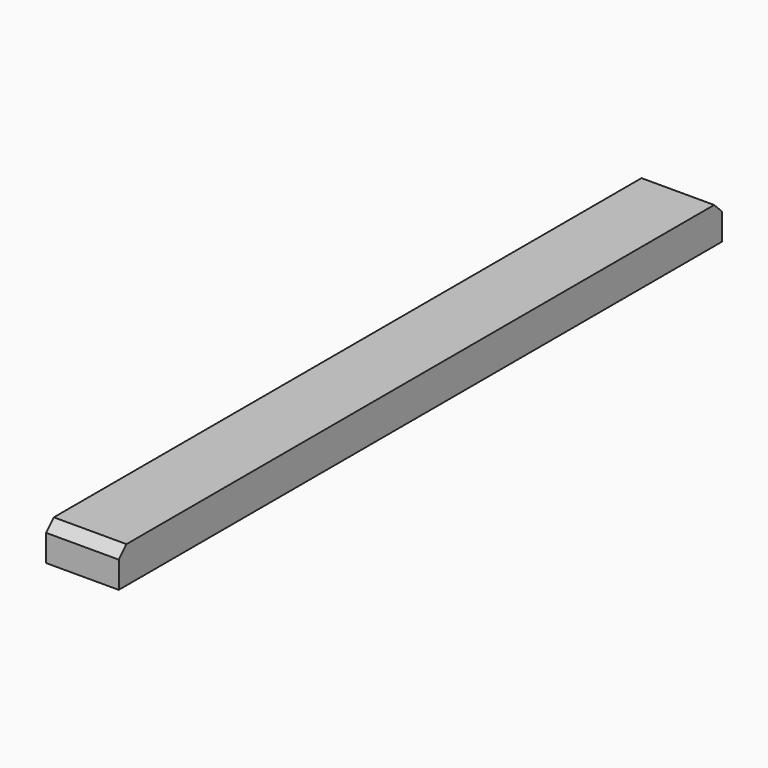
from build123d import *

# Parameters (mm, degrees)
F0_W     = 38.1
F0_H     = 19.05
F1_DEPTH = 395.2875
F2_SIZE  = 5.08


with BuildPart() as f1:
    # F0 (on Front) → F1 (new body)
    with BuildSketch(Plane.XZ):
        with Locations((19.05, 9.525)):
            Rectangle(F0_W, F0_H)
    extrude(amount=F1_DEPTH)

    # F2
    f2_edges = [f1.edges().sort_by_distance(p)[0] for p in [
        (19.05, -395.2875, 19.05),
        (19.05, 0, 19.05),
    ]]
    chamfer(f2_edges, length=F2_SIZE)


solid = f1.part
